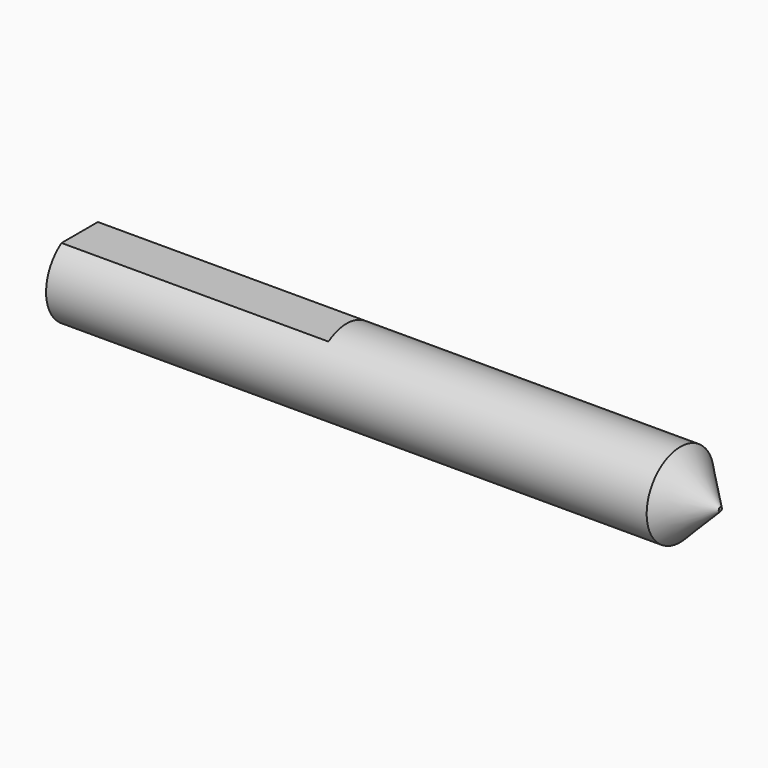
from build123d import *

# Parameters (mm, degrees)
F0_W     = 48
F0_H     = 3.15
F2_SIZE  = 3
F4_DEPTH = 20


with BuildPart() as f1:
    # F0 (on Front) → F1 (revolve)
    with BuildSketch(Plane.XZ):
        with Locations((24, 1.575)):
            Rectangle(F0_W, F0_H)
    revolve(axis=Axis((24, 0, 0), (-1, 0, 0)))

    # F2
    f2_edges = [f1.edges().sort_by_distance(p)[0] for p in [
        (48, 0, -3.15),
    ]]
    chamfer(f2_edges, length=F2_SIZE)

    # F3 (on face) → F4 (cut)
    with BuildSketch(Plane(origin=(0, 0, 0), x_dir=(0, -1, 0), z_dir=(-1, 0, 0))):
        with BuildLine():
            Line((-1.7029386366, 2.65), (1.7029386366, 2.65))
            ThreePointArc((1.7029386366, 2.65), (0.8874119675, 3.0224162519), (0, 3.15))
            ThreePointArc((0, 3.15), (-0.8874119675, 3.0224162519), (-1.7029386366, 2.65))
        make_face()
    extrude(amount=-F4_DEPTH, mode=Mode.SUBTRACT)


solid = f1.part
